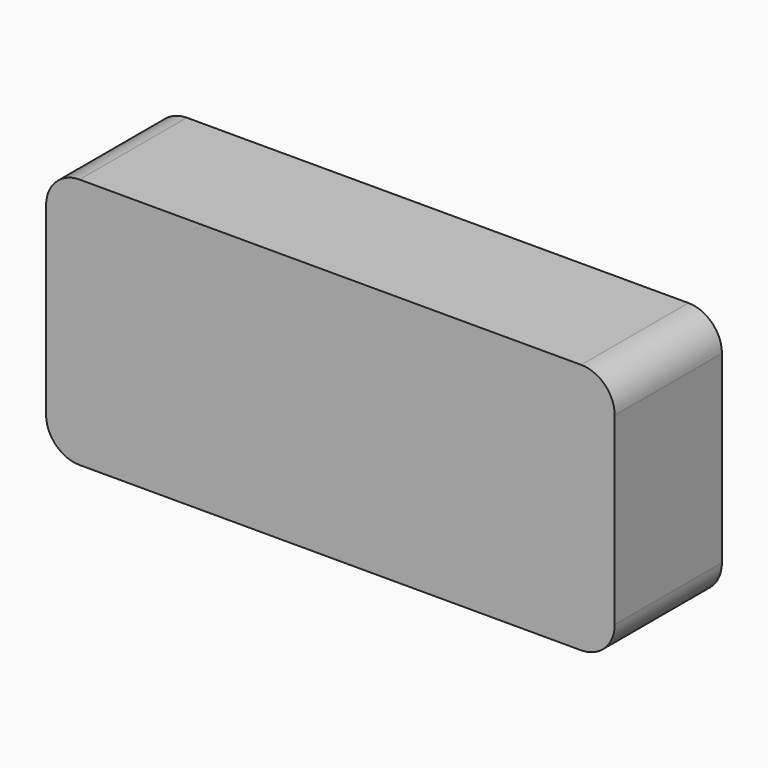
from build123d import *

# Parameters (mm, degrees)
F0_R     = 20.32
F0_R_2   = 32.385
F1_DEPTH = 50.8


with BuildPart() as f1:
    # F0 (on Front) → F1 (new body)
    with BuildSketch(Plane.XZ):
        with BuildLine():
            Line((95.065414, 47.625), (-95.065414, 47.625))
            ThreePointArc((-95.065414, 47.625), (-104.04567, 43.905256), (-107.765414, 34.925))
            Line((-107.765414, 34.925), (-107.765414, -34.925))
            ThreePointArc((-107.765414, -34.925), (-104.04567, -43.905256), (-95.065414, -47.625))
            Line((-95.065414, -47.625), (95.065414, -47.625))
            ThreePointArc((95.065414, -47.625), (104.04567, -43.905256), (107.765414, -34.925))
            Line((107.765414, -34.925), (107.765414, 34.925))
            ThreePointArc((107.765414, 34.925), (104.04567, 43.905256), (95.065414, 47.625))
        make_face()
        with Locations((-55.365214, 0)):
            Circle(F0_R, mode=Mode.SUBTRACT)
        Circle(F0_R_2, mode=Mode.SUBTRACT)
        with Locations((55.365214, 0)):
            Circle(F0_R, mode=Mode.SUBTRACT)
        with Locations((-55.365214, 0)):
            Circle(F0_R)
        Circle(F0_R_2)
        with Locations((55.365214, 0)):
            Circle(F0_R)
    extrude(amount=F1_DEPTH)


solid = f1.part
